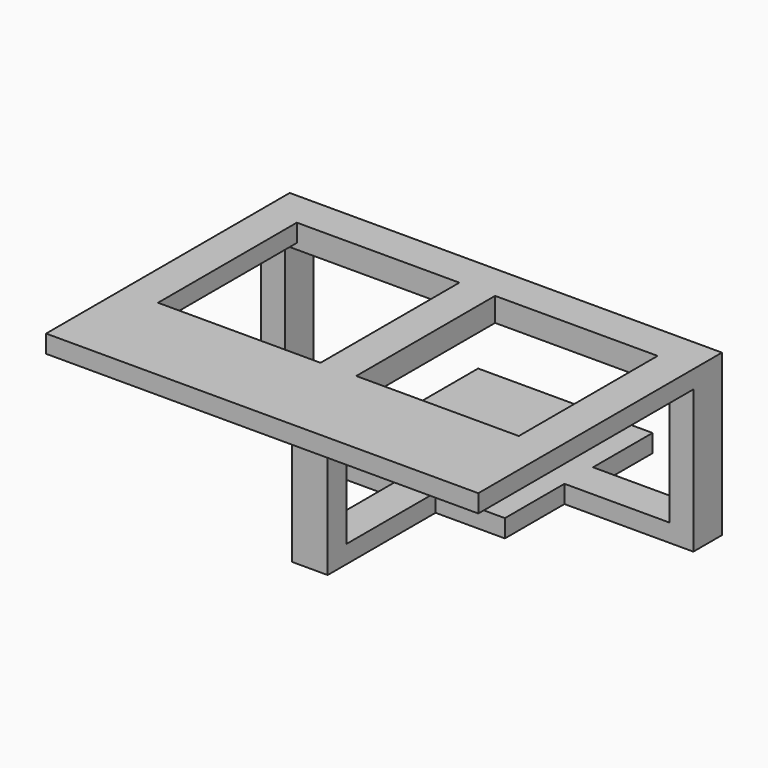
from build123d import *

# Parameters (mm, degrees)
F0_W      = 29.3
F0_H      = 31
F1_DEPTH  = 3
F2_W      = 6
F2_H      = 3
F5_DEPTH  = 21.65
F3_W      = 6
F3_H      = 3
F6_DEPTH  = 21.65
F4_W      = 6
F4_H      = 3
F7_DEPTH  = 22.65
F8_W      = 4
F8_H      = 6
F8_W_2    = 6
F8_H_2    = 4
F9_DEPTH  = 24
F10_W     = 6
F10_H     = 4
F13_DEPTH = 35.95
F11_W     = 6
F11_H     = 4
F14_DEPTH = 35.95
F12_W     = 6
F12_H     = 4
F15_DEPTH = 33.8
F17_DEPTH = 4
F19_DEPTH = 3
F21_DEPTH = 10


with BuildPart() as f1:
    # F0 (on Top) → F1 (new body)
    with BuildSketch(Plane.XY):
        with Locations((-17.4727943537, 14.6659919992)):
            Rectangle(F0_W, F0_H)
    extrude(amount=F1_DEPTH)

    # F2 (on face) → F5 (join)
    with BuildSketch(Plane.YZ.offset(-2.8227943537)):
        with Locations((14.6659919992, 1.5)):
            Rectangle(F2_W, F2_H)
    extrude(amount=F5_DEPTH)

    # F3 (on face) → F6 (join)
    with BuildSketch(Plane(origin=(-32.1227943537, 0, 0), x_dir=(0, -1, 0), z_dir=(-1, 0, 0))):
        with Locations((-14.6659919992, 1.5)):
            Rectangle(F3_W, F3_H)
    extrude(amount=F6_DEPTH)

    # F4 (on face) → F7 (join)
    with BuildSketch(Plane.XZ.offset(0.8340080008)):
        with Locations((-17.4727943537, 1.5)):
            Rectangle(F4_W, F4_H)
    extrude(amount=F7_DEPTH)

    # F8 (on face) → F9 (join)
    with BuildSketch(Plane.XY.offset(3)):
        with Locations((16.8272056463, 14.6659919992)):
            Rectangle(F8_W, F8_H)
        with Locations((-17.4727943537, -21.4840080008)):
            Rectangle(F8_W_2, F8_H_2)
        with Locations((-51.7727943537, 14.6659919992)):
            Rectangle(F8_W, F8_H)
    extrude(amount=F9_DEPTH)

    # F10 (on face) → F13 (join)
    with BuildSketch(Plane(origin=(14.8272056463, 0, 0), x_dir=(0, -1, 0), z_dir=(-1, 0, 0))):
        with Locations((-14.6659919992, 25)):
            Rectangle(F10_W, F10_H)
    extrude(amount=F13_DEPTH)

    # F11 (on face) → F14 (join)
    with BuildSketch(Plane.YZ.offset(-49.7727943537)):
        with Locations((14.6659919992, 25)):
            Rectangle(F11_W, F11_H)
    extrude(amount=F14_DEPTH)

    # F12 (on face) → F15 (join)
    with BuildSketch(Plane(origin=(0, -19.4840080008, 0), x_dir=(-1, 0, 0), z_dir=(0, 1, 0))):
        with Locations((17.4727943537, 25)):
            Rectangle(F12_W, F12_H)
    extrude(amount=F15_DEPTH)

    # F16 (on face) → F17 (cut)
    with BuildSketch(Plane.XY.offset(3)):
        with BuildLine():
            ThreePointArc((-17.4727943537, 13.6659919992), (-16.7656875725, 13.958885218), (-16.4727943537, 14.6659919992))
            Line((-16.4727943537, 14.6659919992), (-17.4727943537, 14.6659919992))
            Line((-17.4727943537, 14.6659919992), (-17.4727943537, 13.6659919992))
        make_face()
        with BuildLine():
            Line((-17.4727943537, 14.6659919992), (-16.4727943537, 14.6659919992))
            ThreePointArc((-16.4727943537, 14.6659919992), (-16.7656875725, 15.3730987804), (-17.4727943537, 15.6659919992))
            Line((-17.4727943537, 15.6659919992), (-17.4727943537, 14.6659919992))
        make_face()
        with BuildLine():
            Line((-18.4727943537, 14.6659919992), (-17.4727943537, 14.6659919992))
            Line((-17.4727943537, 14.6659919992), (-17.4727943537, 15.6659919992))
            ThreePointArc((-17.4727943537, 15.6659919992), (-18.1799011348, 15.3730987804), (-18.4727943537, 14.6659919992))
        make_face()
        with BuildLine():
            Line((-17.4727943537, 13.6659919992), (-17.4727943537, 14.6659919992))
            Line((-17.4727943537, 14.6659919992), (-18.4727943537, 14.6659919992))
            ThreePointArc((-18.4727943537, 14.6659919992), (-18.1799011348, 13.958885218), (-17.4727943537, 13.6659919992))
        make_face()
    extrude(amount=-F17_DEPTH, mode=Mode.SUBTRACT)

    # F18 (on face) → F19 (join)
    with BuildSketch(Plane.XY.offset(27)):
        Polygon((-14.4727943537, -17.4840080008), (-14.4727943537, -23.4840080008), (18.8272056463, -23.4840080008), (18.8272056463, 11.6659919992), (12.8272056463, 11.6659919992), (12.8272056463, -17.4840080008), align=None)
        Polygon((-47.7727943537, 11.6659919992), (-53.7727943537, 11.6659919992), (-53.7727943537, -23.4840080008), (-20.4727943537, -23.4840080008), (-20.4727943537, -17.4840080008), (-47.7727943537, -17.4840080008), align=None)
    extrude(amount=-F19_DEPTH)

    # F20 (on face) → F21 (join)
    with BuildSketch(Plane.XZ.offset(23.4840080008)):
        Polygon((-53.7727943537, 24), (-20.4727943537, 24), (-14.4727943537, 24), (18.8272056463, 24), (18.8272056463, 27), (-53.7727943537, 27), align=None)
    extrude(amount=F21_DEPTH)


solid = f1.part
